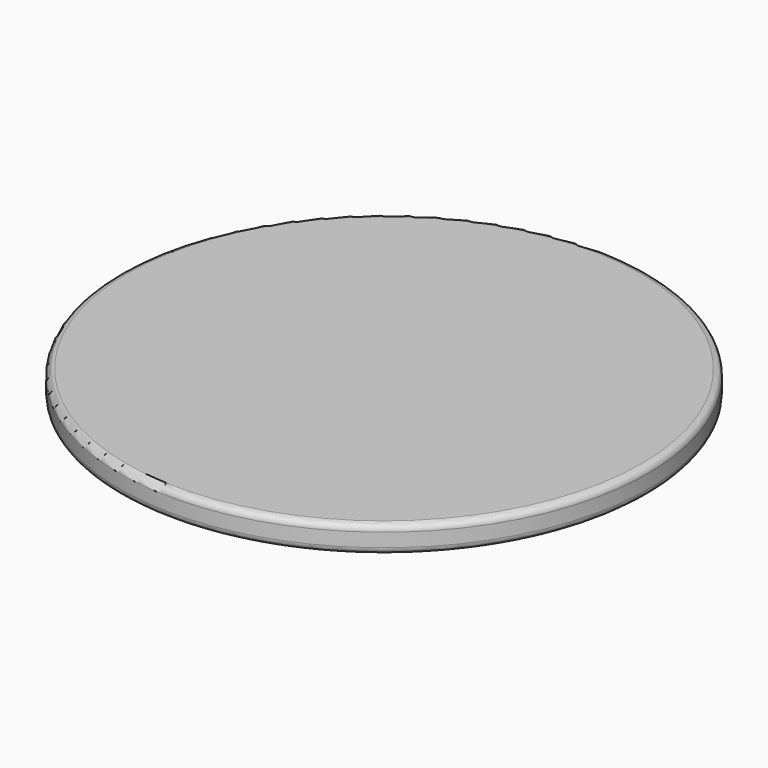
from build123d import *

# Parameters (mm, degrees)
F2_R = 0.5


with BuildPart() as f1:
    # F0 (on Front) → F1 (revolve)
    with BuildSketch(Plane.XZ):
        Polygon((0, -2.5), (0, 0), (-20, 0), (-20, -2), (-12, -2.5), align=None)
    revolve(axis=Axis((0, 0, -1.25), (0, 0, -1)))

    # F2
    f2_edges = [f1.edges().sort_by_distance(p)[0] for p in [
        (20, 0, -2),
        (20, 0, 0),
    ]]
    fillet(f2_edges, radius=F2_R)


solid = f1.part
